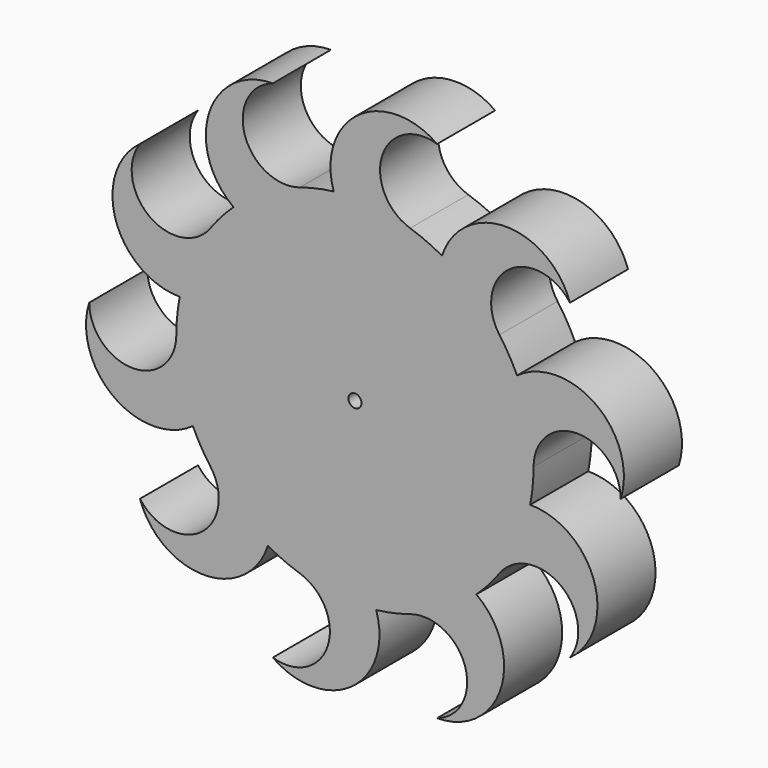
from build123d import *

# Parameters (mm, degrees)
F0_R     = 0.5715
F1_DEPTH = 6.35


with BuildPart() as f1:
    # F0 (on Front) → F1 (new body)
    with BuildSketch(Plane.XZ):
        with BuildLine():
            ThreePointArc((23.241, 0), (21.086285, 6.564897), (14.176824, 6.559977))
            ThreePointArc((14.176824, 6.559977), (13.471175, 7.908419), (12.637654, 9.181793))
            ThreePointArc((12.637654, 9.181793), (13.480547, 14.50361), (18.802364, 13.660717))
            ThreePointArc((18.802364, 13.660717), (13.200413, 17.70532), (7.613434, 13.640061))
            ThreePointArc((7.613434, 13.640061), (6.249957, 14.316203), (4.827154, 14.856454))
            ThreePointArc((4.827154, 14.856454), (2.380984, 19.657334), (7.181864, 22.103504))
            ThreePointArc((7.181864, 22.103504), (0.272432, 22.082913), (-1.858029, 15.510105))
            ThreePointArc((-1.858029, 15.510105), (-3.358532, 15.255684), (-4.827154, 14.856454))
            ThreePointArc((-4.827154, 14.856454), (-9.628035, 17.302624), (-7.181864, 22.103504))
            ThreePointArc((-7.181864, 22.103504), (-12.759608, 18.025584), (-10.619788, 11.455817))
            ThreePointArc((-10.619788, 11.455817), (-11.684175, 10.368013), (-12.637654, 9.181793))
            ThreePointArc((-12.637654, 9.181793), (-17.959471, 8.3389), (-18.802364, 13.660717))
            ThreePointArc((-18.802364, 13.660717), (-20.917912, 7.083094), (-15.325149, 3.025796))
            ThreePointArc((-15.325149, 3.025796), (-15.546861, 1.520112), (-15.621, 0))
            ThreePointArc((-15.621, 0), (-19.431, -3.81), (-23.241, 0))
            ThreePointArc((-23.241, 0), (-21.086285, -6.564897), (-14.176824, -6.559977))
            ThreePointArc((-14.176824, -6.559977), (-13.471175, -7.908419), (-12.637654, -9.181793))
            ThreePointArc((-12.637654, -9.181793), (-13.480547, -14.50361), (-18.802364, -13.660717))
            ThreePointArc((-18.802364, -13.660717), (-13.200413, -17.70532), (-7.613434, -13.640061))
            ThreePointArc((-7.613434, -13.640061), (-6.249957, -14.316203), (-4.827154, -14.856454))
            ThreePointArc((-4.827154, -14.856454), (-2.380984, -19.657334), (-7.181864, -22.103504))
            ThreePointArc((-7.181864, -22.103504), (-0.272432, -22.082913), (1.858029, -15.510105))
            ThreePointArc((1.858029, -15.510105), (3.358532, -15.255684), (4.827154, -14.856454))
            ThreePointArc((4.827154, -14.856454), (9.628035, -17.302624), (7.181864, -22.103504))
            ThreePointArc((7.181864, -22.103504), (12.759608, -18.025584), (10.619788, -11.455817))
            ThreePointArc((10.619788, -11.455817), (11.684175, -10.368013), (12.637654, -9.181793))
            ThreePointArc((12.637654, -9.181793), (17.959471, -8.3389), (18.802364, -13.660717))
            ThreePointArc((18.802364, -13.660717), (20.917912, -7.083094), (15.325149, -3.025796))
            ThreePointArc((15.325149, -3.025796), (15.546861, -1.520112), (15.621, 0))
            ThreePointArc((15.621, 0), (19.431, 3.81), (23.241, 0))
        make_face()
        Circle(F0_R, mode=Mode.SUBTRACT)
    extrude(amount=F1_DEPTH)


solid = f1.part
